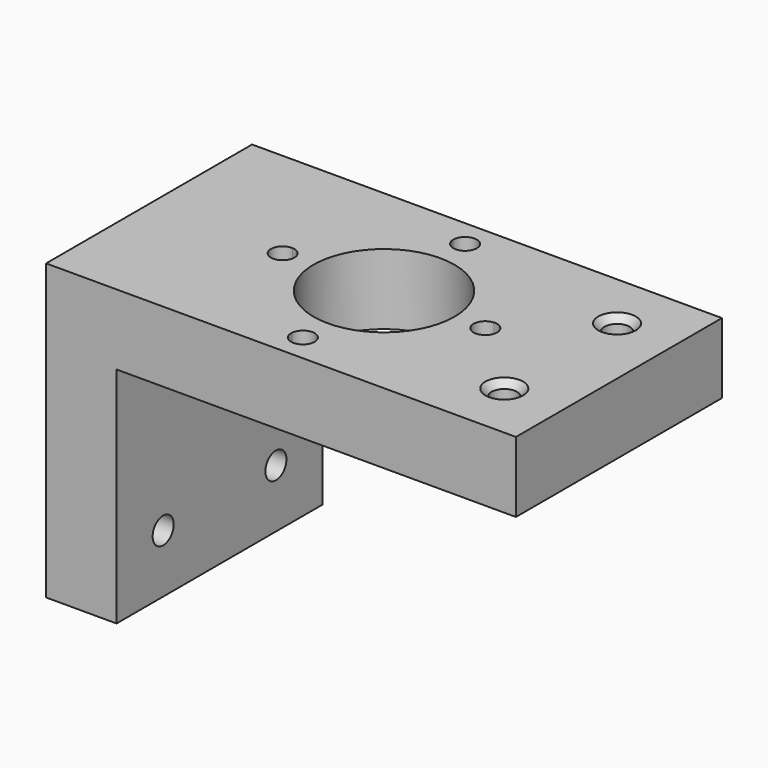
from build123d import *

# Parameters (mm, degrees)
F0_W            = 127
F0_H            = 69.596
F1_DEPTH        = 19.05
F2_W            = 19.05
F2_H            = 69.596
F3_DEPTH        = 60.452
F4_R            = 19.05
F5_DEPTH        = 25.4
F7_DEPTH        = 25.4
F9_D            = 6.858
F9_DEPTH        = 25.4
F9_CSINK_D      = 10.16
F9_CSINK_ANGLE  = 82
F9_TIP          = 2.0603510626
F11_D           = 7.112
F11_DEPTH       = 25.4
F11_CBORE_D     = 12.7
F11_CBORE_DEPTH = 6.604
F11_TIP         = 2.1366603613


with BuildPart() as f1:
    # F0 (on Top) → F1 (new body)
    with BuildSketch(Plane.XY):
        Rectangle(F0_W, F0_H)
    extrude(amount=-F1_DEPTH)

    # F2 (on face) → F3 (join)
    with BuildSketch(Plane(origin=(0, 0, -19.05), x_dir=(1, 0, 0), z_dir=(0, 0, -1))):
        with Locations((-53.975, 0)):
            Rectangle(F2_W, F2_H)
    extrude(amount=F3_DEPTH)

    # F4 (on face) → F5 (cut)
    with BuildSketch(Plane.XY):
        Circle(F4_R)
    extrude(amount=-F5_DEPTH, mode=Mode.SUBTRACT)

    # F6 (on face) → F7 (cut)
    with BuildSketch(Plane.XY):
        with BuildLine():
            ThreePointArc((-3.1696624056, 27.2052425135), (0, 24.2142676058), (3.1696624056, 27.2052425135))
            ThreePointArc((3.1696624056, 27.2052425135), (0, 27.3892676058), (-3.1696624056, 27.2052425135))
        make_face()
        with BuildLine():
            ThreePointArc((-3.1696624056, 27.2052425135), (0, 27.3892676058), (3.1696624056, 27.2052425135))
            ThreePointArc((3.1696624056, 27.2052425135), (3.1736653209, 27.2972163639), (3.175, 27.3892676058))
            ThreePointArc((3.175, 27.3892676058), (-0.0920512419, 30.5629329266), (-3.1696624056, 27.2052425135))
        make_face()
        with BuildLine():
            ThreePointArc((27.2052425135, 3.1696624056), (27.3432226289, 1.5875), (27.3892676058, 0))
            ThreePointArc((27.3892676058, 0), (27.3432226289, -1.5875), (27.2052425135, -3.1696624056))
            ThreePointArc((27.2052425135, -3.1696624056), (29.568297818, -2.3092103269), (30.5642676058, 0))
            ThreePointArc((30.5642676058, 0), (29.568297818, 2.3092103269), (27.2052425135, 3.1696624056))
        make_face()
        with BuildLine():
            ThreePointArc((27.2052425135, -3.1696624056), (27.3432226289, -1.5875), (27.3892676058, 0))
            ThreePointArc((27.3892676058, 0), (27.3432226289, 1.5875), (27.2052425135, 3.1696624056))
            ThreePointArc((27.2052425135, 3.1696624056), (24.2142676058, 0), (27.2052425135, -3.1696624056))
        make_face()
        with BuildLine():
            ThreePointArc((3.175, -27.3892676058), (3.1736653209, -27.2972163639), (3.1696624056, -27.2052425135))
            ThreePointArc((3.1696624056, -27.2052425135), (0, -27.3892676058), (-3.1696624056, -27.2052425135))
            ThreePointArc((-3.1696624056, -27.2052425135), (-0.0920512419, -30.5629329266), (3.175, -27.3892676058))
        make_face()
        with BuildLine():
            ThreePointArc((-3.1696624056, -27.2052425135), (0, -27.3892676058), (3.1696624056, -27.2052425135))
            ThreePointArc((3.1696624056, -27.2052425135), (0, -24.2142676058), (-3.1696624056, -27.2052425135))
        make_face()
        with BuildLine():
            ThreePointArc((-24.2142676058, 0), (-25.0800572788, 2.1790302123), (-27.2052425135, 3.1696624056))
            ThreePointArc((-27.2052425135, 3.1696624056), (-27.3892676058, 0), (-27.2052425135, -3.1696624056))
            ThreePointArc((-27.2052425135, -3.1696624056), (-25.0800572788, -2.1790302123), (-24.2142676058, 0))
        make_face()
        with BuildLine():
            ThreePointArc((-27.2052425135, -3.1696624056), (-27.3892676058, 0), (-27.2052425135, 3.1696624056))
            ThreePointArc((-27.2052425135, 3.1696624056), (-30.5642676058, 0), (-27.2052425135, -3.1696624056))
        make_face()
    extrude(amount=-F7_DEPTH, mode=Mode.SUBTRACT)

    # F9
    with Locations(Plane.XY):
        with Locations((47.752, 19.05), (47.752, -19.05)):
            CounterSinkHole(F9_D / 2, F9_CSINK_D / 2, depth=F9_DEPTH, counter_sink_angle=F9_CSINK_ANGLE)
            with Locations((0, 0, -(F9_DEPTH + F9_TIP / 2))):  # 118° drill point
                Cone(0, F9_D / 2, F9_TIP, mode=Mode.SUBTRACT)

    # F11
    with Locations(Plane(origin=(-63.5, 0, 0), x_dir=(0, -1, 0), z_dir=(-1, 0, 0))):
        with Locations((-19.05, -63.754), (19.05, -63.754)):
            CounterBoreHole(F11_D / 2, F11_CBORE_D / 2, F11_CBORE_DEPTH, depth=F11_DEPTH)
            with Locations((0, 0, -(F11_DEPTH + F11_TIP / 2))):  # 118° drill point
                Cone(0, F11_D / 2, F11_TIP, mode=Mode.SUBTRACT)


solid = f1.part
